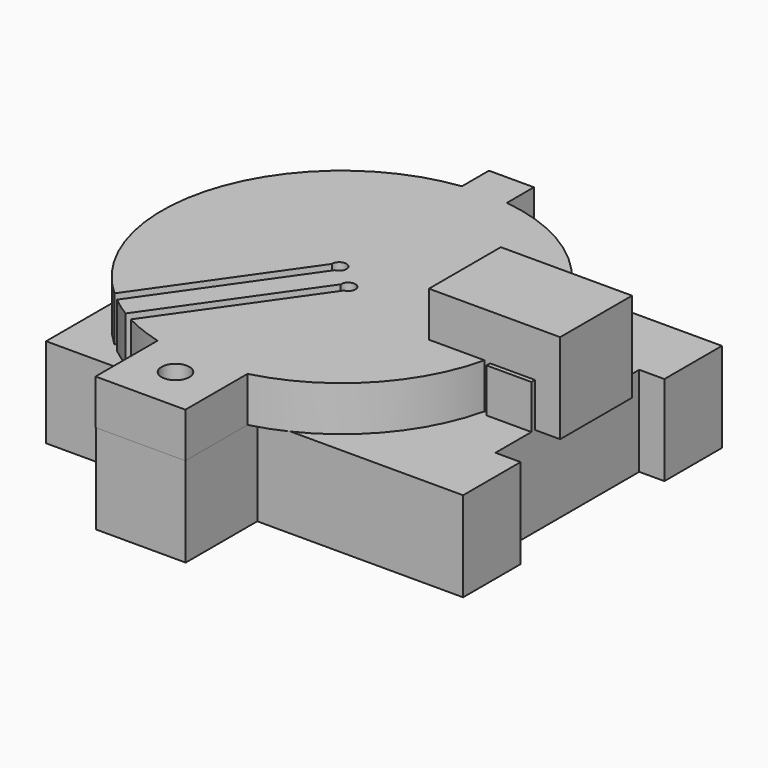
from build123d import *

# Parameters (mm, degrees)
BOX001_W               = 10
BOX001_H               = 10
BOX001_DEPTH           = 14.6
BOX004_W               = 5
BOX004_H               = 10
BOX004_DEPTH           = 5
BOX005_W               = 10
BOX005_H               = 20
BOX005_DEPTH           = 20
CYLINDER_R             = 13.2
CYLINDER_DEPTH         = 40
BOX_W                  = 10
BOX_H                  = 36
BOX_DEPTH              = 46.4
BOX006_W               = 5
BOX006_H               = 5
BOX006_DEPTH           = 5
CYLINDER003_R          = 1.55
CYLINDER003_DEPTH      = 50
BOX003_W               = 10
BOX003_H               = 14
BOX003_DEPTH           = 5
BOX010_W               = 1.2
BOX010_H               = 30
BOX010_DEPTH           = 10
BOX010_ROLL_ANGLE      = 90
BOX010_PLACEMENT_ANGLE = -35
BOX009_W               = 1.2
BOX009_H               = 30
BOX009_DEPTH           = 10
BOX009_ROLL_ANGLE      = 90
BOX009_PLACEMENT_ANGLE = -35
BOX008_W               = 1.2
BOX008_H               = 30
BOX008_DEPTH           = 10
BOX008_PLACEMENT_ANGLE = 325
BOX007_W               = 1.2
BOX007_H               = 30
BOX007_DEPTH           = 10
BOX007_PLACEMENT_ANGLE = 325
CYLINDER006_R          = 0.8
CYLINDER006_DEPTH      = 30
CYLINDER005_R          = 0.8
CYLINDER005_DEPTH      = 30
CYLINDER004_R          = 4
CYLINDER004_DEPTH      = 10
CYLINDER002_R          = 20
CYLINDER002_DEPTH      = 5
CYLINDER001_R          = 1.5
CYLINDER001_DEPTH      = 30
BOX002_W               = 10
BOX002_H               = 10
BOX002_DEPTH           = 10


with BuildPart() as cube001:
    # Box001 → Box001 (new body)
    with BuildSketch(Plane(origin=(12.1, -4.5, 10), x_dir=(0, 0, -1), z_dir=(1, 0, 0))):
        with Locations((5, 5)):
            Rectangle(BOX001_W, BOX001_H)
    extrude(amount=BOX001_DEPTH)


with BuildPart() as swivelstop:
    # Box004 → Box004 (new body)
    with BuildSketch(Plane(origin=(18.9, -5, -0.1), x_dir=(1, 0, 0), z_dir=(0, 0, 1))):
        with Locations((2.5, 5)):
            Rectangle(BOX004_W, BOX004_H)
    extrude(amount=BOX004_DEPTH)


with BuildPart() as footcutout:
    # Box005 → Box005 (new body)
    with BuildSketch(Plane(origin=(23.9, -10, -18), x_dir=(1, 0, 0), z_dir=(0, 0, 1))):
        with Locations((5, 10)):
            Rectangle(BOX005_W, BOX005_H)
    extrude(amount=BOX005_DEPTH)


with BuildPart() as cardboardbarrelholder:
    # Cylinder → Cylinder (new body)
    with BuildSketch(Plane(origin=(-1.1, 0, -20), x_dir=(1, 0, 0), z_dir=(0, 0, 1))):
        Circle(CYLINDER_R)
    extrude(amount=CYLINDER_DEPTH)


with BuildPart() as mainpiece1:
    # Box → Box (new body)
    with BuildSketch(Plane(origin=(-19.7, -18, 0), x_dir=(0, 0, -1), z_dir=(1, 0, 0))):
        with Locations((5, 18)):
            Rectangle(BOX_W, BOX_H)
    extrude(amount=BOX_DEPTH)

    # Cut: cut cardboardBarrelHolder
    add(cardboardbarrelholder.part, mode=Mode.SUBTRACT)

    # Cut001: cut footCutout
    add(footcutout.part, mode=Mode.SUBTRACT)


with BuildPart() as obj1:
    # Fusion002 base: copy of mainPiece1
    add(mainpiece1.part)

    # Fusion002: union swivelStop
    add(swivelstop.part)


with BuildPart() as obj2:
    # Box006 → Box006 (new body)
    with BuildSketch(Plane(origin=(-3.7, 18.6, 0), x_dir=(1, 0, 0), z_dir=(0, 0, 1))):
        with Locations((2.5, 2.5)):
            Rectangle(BOX006_W, BOX006_H)
    extrude(amount=BOX006_DEPTH)


with BuildPart() as shuttertabhole:
    # Cylinder003 → Cylinder003 (new body)
    with BuildSketch(Plane(origin=(-1.3, -23, -12), x_dir=(1, 0, 0), z_dir=(0, 0, 1))):
        Circle(CYLINDER003_R)
    extrude(amount=CYLINDER003_DEPTH)


with BuildPart() as shutterhingetab001:
    # Box003 → Box003 (new body)
    with BuildSketch(Plane(origin=(-6.2, -28, 0), x_dir=(1, 0, 0), z_dir=(0, 0, 1))):
        with Locations((5, 7)):
            Rectangle(BOX003_W, BOX003_H)
    extrude(amount=BOX003_DEPTH)

    # Cut009: cut shutterTabHole
    add(shuttertabhole.part, mode=Mode.SUBTRACT)


with BuildPart() as radialtransit4:
    # Box010 → Box010 (new body)
    with BuildSketch(Plane.XY):
        with Locations((0.6, 15)):
            Rectangle(BOX010_W, BOX010_H)
    extrude(amount=BOX010_DEPTH)


with BuildPart() as radialtransit4_1:
    # Box010 roll: moved
    add(radialtransit4.part.rotate(Axis((0, 0, 0), (1, 0, 0)), BOX010_ROLL_ANGLE))


with BuildPart() as radialtransit4_2:
    # Box010 placement: moved
    add(radialtransit4_1.part.moved(Location((-14.008889, -13.784169, -4.1))).rotate(Axis((-14.008889, -13.784169, -4.1), (0, 0, 1)), BOX010_PLACEMENT_ANGLE))


with BuildPart() as radialtransit3:
    # Box009 → Box009 (new body)
    with BuildSketch(Plane.XY):
        with Locations((0.6, 15)):
            Rectangle(BOX009_W, BOX009_H)
    extrude(amount=BOX009_DEPTH)


with BuildPart() as radialtransit3_1:
    # Box009 roll: moved
    add(radialtransit3.part.rotate(Axis((0, 0, 0), (1, 0, 0)), BOX009_ROLL_ANGLE))


with BuildPart() as radialtransit3_2:
    # Box009 placement: moved
    add(radialtransit3_1.part.moved(Location((-10.871554, -16.103032, -4.1))).rotate(Axis((-10.871554, -16.103032, -4.1), (0, 0, 1)), BOX009_PLACEMENT_ANGLE))


with BuildPart() as radialtransit2:
    # Box008 → Box008 (new body)
    with BuildSketch(Plane.XY):
        with Locations((0.6, 15)):
            Rectangle(BOX008_W, BOX008_H)
    extrude(amount=BOX008_DEPTH)


with BuildPart() as radialtransit2_1:
    # Box008 placement: moved
    add(radialtransit2.part.moved(Location((-20.375588, -22.876757, 3.8))).rotate(Axis((-20.375588, -22.876757, 3.8), (0, 0, 1)), BOX008_PLACEMENT_ANGLE))


with BuildPart() as radialtransit1:
    # Box007 → Box007 (new body)
    with BuildSketch(Plane.XY):
        with Locations((0.6, 15)):
            Rectangle(BOX007_W, BOX007_H)
    extrude(amount=BOX007_DEPTH)


with BuildPart() as radialtransit1_1:
    # Box007 placement: moved
    add(radialtransit1.part.moved(Location((-17.352968, -25.35945, 3.8))).rotate(Axis((-17.352968, -25.35945, 3.8), (0, 0, 1)), BOX007_PLACEMENT_ANGLE))


with BuildPart() as obj3:
    # Cylinder006 → Cylinder006 (new body)
    with BuildSketch(Plane(origin=(-2.6, 1.4, -18), x_dir=(1, 0, 0), z_dir=(0, 0, 1))):
        Circle(CYLINDER006_R)
    extrude(amount=CYLINDER006_DEPTH)


with BuildPart() as obj4:
    # Cylinder005 → Cylinder005 (new body)
    with BuildSketch(Plane(origin=(0.4, -1.1, -18), x_dir=(1, 0, 0), z_dir=(0, 0, 1))):
        Circle(CYLINDER005_R)
    extrude(amount=CYLINDER005_DEPTH)


with BuildPart() as obj5:
    # Cylinder004 → Cylinder004 (new body)
    with BuildSketch(Plane(origin=(-1.2, 0, -8), x_dir=(1, 0, 0), z_dir=(0, 0, 1))):
        Circle(CYLINDER004_R)
    extrude(amount=CYLINDER004_DEPTH)


with BuildPart() as shutter4:
    # Cylinder002 → Cylinder002 (new body)
    with BuildSketch(Plane(origin=(-1.2, 0, 0), x_dir=(1, 0, 0), z_dir=(0, 0, 1))):
        Circle(CYLINDER002_R)
    extrude(amount=CYLINDER002_DEPTH)

    # Cut002: cut obj5
    add(obj5.part, mode=Mode.SUBTRACT)

    # Cut003: cut obj4
    add(obj4.part, mode=Mode.SUBTRACT)

    # Cut004: cut obj3
    add(obj3.part, mode=Mode.SUBTRACT)

    # Cut005: cut radialTransit1
    add(radialtransit1_1.part, mode=Mode.SUBTRACT)

    # Cut006: cut radialTransit2
    add(radialtransit2_1.part, mode=Mode.SUBTRACT)

    # Cut007: cut radialTransit3
    add(radialtransit3_2.part, mode=Mode.SUBTRACT)

    # Cut008: cut radialTransit4
    add(radialtransit4_2.part, mode=Mode.SUBTRACT)

    # Fusion001: union shutterHingeTab001
    add(shutterhingetab001.part)

    # Fusion003: union obj2
    add(obj2.part)


with BuildPart() as hingetabhole:
    # Cylinder001 → Cylinder001 (new body)
    with BuildSketch(Plane(origin=(-1.3, -23, -12), x_dir=(1, 0, 0), z_dir=(0, 0, 1))):
        Circle(CYLINDER001_R)
    extrude(amount=CYLINDER001_DEPTH)


with BuildPart() as mainpiecehingetab:
    # Box002 → Box002 (new body)
    with BuildSketch(Plane(origin=(-6.2, -27.952, -10), x_dir=(1, 0, 0), z_dir=(0, 0, 1))):
        with Locations((5, 5)):
            Rectangle(BOX002_W, BOX002_H)
    extrude(amount=BOX002_DEPTH)

    # Cut010: cut hingeTabHole
    add(hingetabhole.part, mode=Mode.SUBTRACT)


with BuildPart() as mainpiece10:
    # Fusion base: copy of mainPiece1
    add(mainpiece1.part)

    # Fusion: union mainPieceHingeTab
    add(mainpiecehingetab.part)

    # Fusion004: union swivelStop
    add(swivelstop.part)


solid = Compound([cube001.part, obj1.part, shutter4.part, mainpiece10.part])
